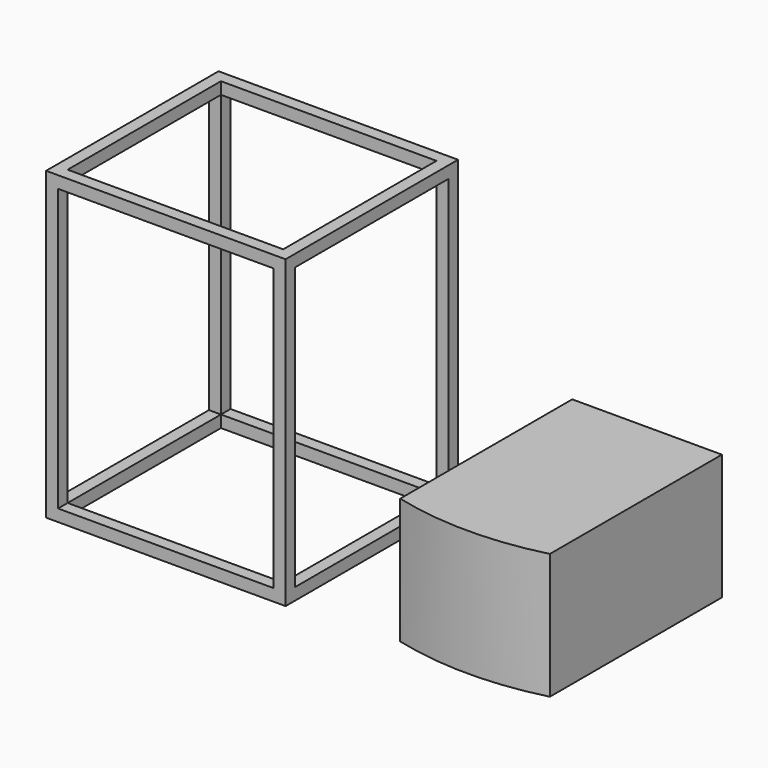
from build123d import *

# Parameters (mm, degrees)
F0_W     = 400
F0_H     = 360
F0_W_2   = 360
F0_H_2   = 320
F1_DEPTH = 510
F2_W     = 360
F2_H     = 470
F3_DEPTH = 638.111826
F4_W     = 320
F4_H     = 470
F5_DEPTH = 520
F0_W_3   = 250
F0_H_3   = 359.122919
F6_DEPTH = 210


with BuildPart() as f1:
    # F0 (on Top) → F1 (new body)
    with BuildSketch(Plane.XY):
        Rectangle(F0_W, F0_H)
        Rectangle(F0_W_2, F0_H_2, mode=Mode.SUBTRACT)
    extrude(amount=F1_DEPTH)

    # F2 (on face) → F3 (cut)
    with BuildSketch(Plane.XZ.offset(180)):
        with Locations((0, 255)):
            Rectangle(F2_W, F2_H)
    extrude(amount=-F3_DEPTH, mode=Mode.SUBTRACT)

    # F4 (on face) → F5 (cut)
    with BuildSketch(Plane.YZ.offset(200)):
        with Locations((0, 255)):
            Rectangle(F4_W, F4_H)
    extrude(amount=-F5_DEPTH, mode=Mode.SUBTRACT)


with BuildPart() as f6:
    # F0 (on Top) → F6 (new body)
    with BuildSketch(Plane.XY):
        with BuildLine():
            Line((629.010856, -164.521456), (379.010856, -164.521456))
            ThreePointArc((379.010856, -164.521456), (504.010856, -180.398537), (629.010856, -164.521456))
        make_face()
        with Locations((504.010856, 15.040003)):
            Rectangle(F0_W_3, F0_H_3)
    extrude(amount=F6_DEPTH)


solid = Compound([f1.part, f6.part])
